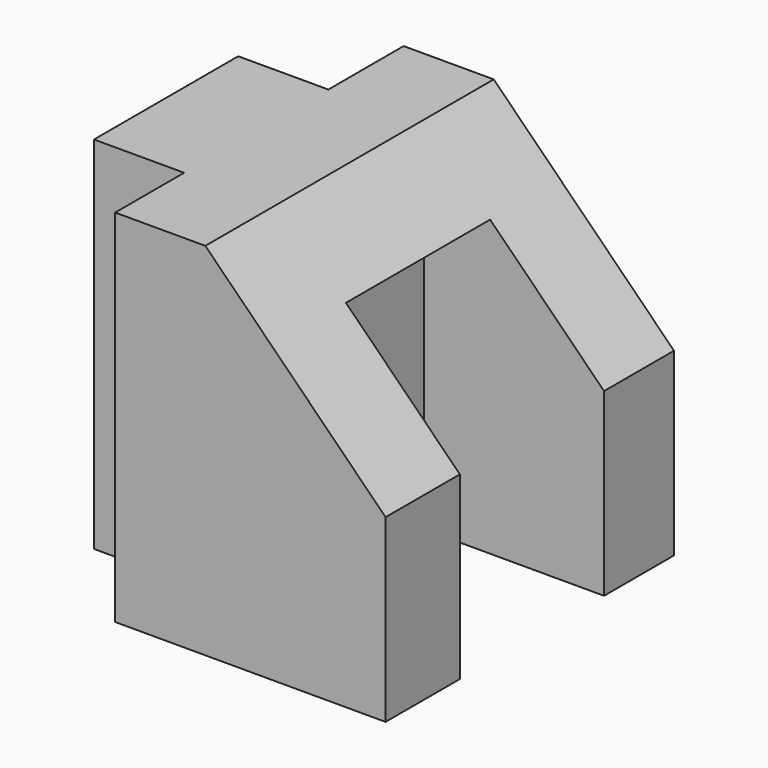
from build123d import *

# Parameters (mm, degrees)
F1_DEPTH = 50.8
F3_DEPTH = 50.8
F4_W     = 25.4
F4_H     = 41.4527870002
F5_DEPTH = 25.4


with BuildPart() as f1:
    # F0 (on Top) → F1 (new body)
    with BuildSketch(Plane.XY):
        Polygon((-12.7, 0), (0, 0), (0, 50.8), (-12.7, 50.8), (-12.7, 37.5397042634), (-25.4, 37.5397042634), (-25.4, 12.1397042634), (-12.7, 12.1397042634), align=None)
    extrude(amount=F1_DEPTH)

    # F2 (on face) → F3 (join)
    with BuildSketch(Plane.XZ):
        Polygon((0, 50.8), (0, 0), (25.4, 0), (25.4, 25.4), align=None)
    extrude(amount=-F3_DEPTH)

    # F4 (on face) → F5 (cut)
    with BuildSketch(Plane.YZ.offset(25.4)):
        with Locations((25.7822034553, 20.7263935001)):
            Rectangle(F4_W, F4_H)
    extrude(amount=-F5_DEPTH, mode=Mode.SUBTRACT)


solid = f1.part
